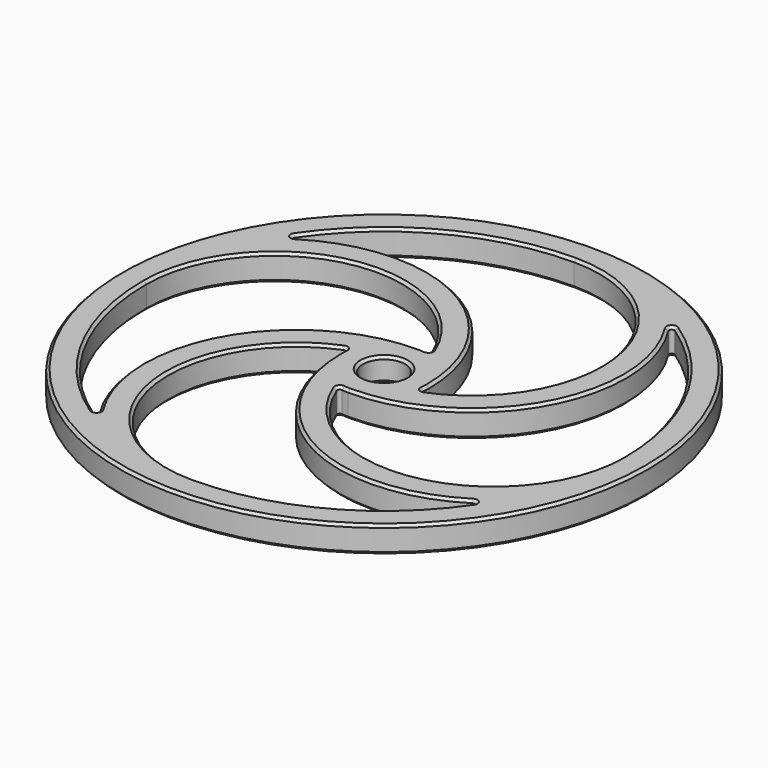
from build123d import *

# Parameters (mm, degrees)
F0_R     = 50
F0_R_2   = 4
F1_DEPTH = 5
F2_R     = 4
F2_R_2   = 3.5
F3_DEPTH = 1
F5_R     = 0.5
F6_SIZE  = 0.5


with BuildPart() as f1:
    # F0 (on Top) → F1 (new body)
    with BuildSketch(Plane.XY):
        Circle(F0_R)
        with BuildLine():
            ThreePointArc((-45, 0), (-24.936899, 23.88582), (2.054217, 8.248042))
            ThreePointArc((2.054217, 8.248042), (1.034806, 8.436775), (0, 8.5))
            ThreePointArc((0, 8.5), (-26.232955, -7.811894), (-23.207162, -38.554217))
            ThreePointArc((-23.207162, -38.554217), (-39.174751, -22.143596), (-45, 0))
        make_face(mode=Mode.SUBTRACT)
        with BuildLine():
            ThreePointArc((0, -45), (-23.88582, -24.936899), (-8.248042, 2.054217))
            ThreePointArc((-8.248042, 2.054217), (-8.436775, 1.034806), (-8.5, 0))
            ThreePointArc((-8.5, 0), (7.811894, -26.232955), (38.554217, -23.207162))
            ThreePointArc((38.554217, -23.207162), (22.143596, -39.174751), (0, -45))
        make_face(mode=Mode.SUBTRACT)
        with BuildLine():
            ThreePointArc((-38.554217, 23.207162), (-22.143596, 39.174751), (0, 45))
            ThreePointArc((0, 45), (23.88582, 24.936899), (8.248042, -2.054217))
            ThreePointArc((8.248042, -2.054217), (8.436775, -1.034806), (8.5, 0))
            ThreePointArc((8.5, 0), (-7.811894, 26.232955), (-38.554217, 23.207162))
        make_face(mode=Mode.SUBTRACT)
        Circle(F0_R_2, mode=Mode.SUBTRACT)
        with BuildLine():
            ThreePointArc((45, 0), (24.936899, -23.88582), (-2.054217, -8.248042))
            ThreePointArc((-2.054217, -8.248042), (-1.034806, -8.436775), (0, -8.5))
            ThreePointArc((0, -8.5), (26.232955, 7.811894), (23.207162, 38.554217))
            ThreePointArc((23.207162, 38.554217), (39.174751, 22.143596), (45, 0))
        make_face(mode=Mode.SUBTRACT)
    extrude(amount=F1_DEPTH)


with BuildPart() as f3:
    # F2 (on Top) → F3 (new body)
    with BuildSketch(Plane.XY):
        Circle(F2_R)
        Circle(F2_R_2, mode=Mode.SUBTRACT)
    extrude(amount=F3_DEPTH)


with BuildPart() as f1_1:
    add(f1.part)

    # F4: union F3
    add(f3.part)

    # F5
    f5_edges = [f1_1.edges().sort_by_distance(p)[0] for p in [
        (-2.054217, -8.248042, 2.5),
        (8.248042, -2.054217, 2.5),
        (-38.554217, 23.207162, 2.5),
        (-8.248042, 2.054217, 2.5),
        (2.054217, 8.248042, 2.5),
        (-23.207162, -38.554217, 2.5),
        (38.554217, -23.207162, 2.5),
        (23.207162, 38.554217, 2.5),
    ]]
    fillet(f5_edges, radius=F5_R)

    # F6
    f6_edges = [f1_1.edges().sort_by_distance(p)[0] for p in [
        (-39.786268, -21.025053, 5),
        (-24.723304, -37.123887, 5),
        (-25.384545, 23.803014, 5),
        (-25.652778, -6.696621, 5),
        (1.658946, 8.602662, 5),
        (0.598878, 8.478876, 5),
        (-50, 0, 5),
        (-4, 0, 5),
        (21.025053, -39.786268, 5),
        (37.123887, -24.723304, 5),
        (-23.803014, -25.384545, 5),
        (6.696621, -25.652778, 5),
        (-8.602662, 1.658946, 5),
        (-8.478876, 0.598878, 5),
        (-21.025053, 39.786268, 5),
        (-37.123887, 24.723304, 5),
        (23.803014, 25.384545, 5),
        (-6.696621, 25.652778, 5),
        (8.602662, -1.658946, 5),
        (8.478876, -0.598878, 5),
        (39.786268, 21.025053, 5),
        (24.723304, 37.123887, 5),
        (25.384545, -23.803014, 5),
        (25.652778, 6.696621, 5),
        (-1.658946, -8.602662, 5),
        (-0.598878, -8.478876, 5),
        (-39.786268, -21.025053, 0),
        (-24.723304, -37.123887, 0),
        (-25.384545, 23.803014, 0),
        (-25.652778, -6.696621, 0),
        (1.658946, 8.602662, 0),
        (0.598878, 8.478876, 0),
        (-50, 0, 0),
        (-3.5, 0, 0),
        (21.025053, -39.786268, 0),
        (37.123887, -24.723304, 0),
        (-23.803014, -25.384545, 0),
        (6.696621, -25.652778, 0),
        (-8.602662, 1.658946, 0),
        (-8.478876, 0.598878, 0),
        (-21.025053, 39.786268, 0),
        (-37.123887, 24.723304, 0),
        (23.803014, 25.384545, 0),
        (-6.696621, 25.652778, 0),
        (8.602662, -1.658946, 0),
        (8.478876, -0.598878, 0),
        (39.786268, 21.025053, 0),
        (24.723304, 37.123887, 0),
        (25.384545, -23.803014, 0),
        (25.652778, 6.696621, 0),
        (-1.658946, -8.602662, 0),
        (-0.598878, -8.478876, 0),
    ]]
    chamfer(f6_edges, length=F6_SIZE)


solid = f1_1.part
